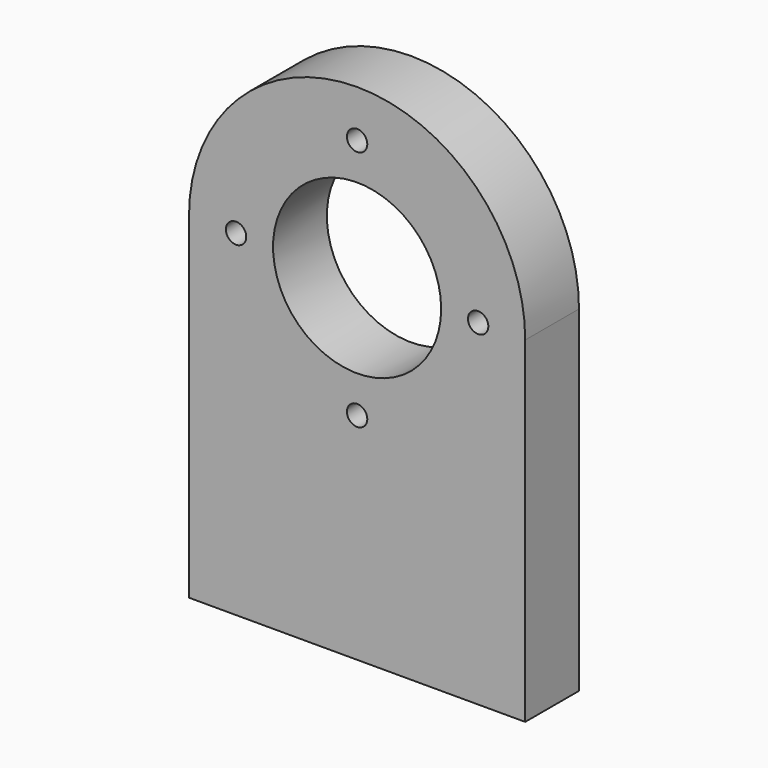
from build123d import *

# Parameters (mm, degrees)
F0_W     = 200
F0_H     = 40
F0_R     = 50
F1_DEPTH = 40
F2_D     = 12.1


with BuildPart() as f1:
    # F0 (on Front) → F1 (new body)
    with BuildSketch(Plane.XZ):
        with Locations((0, 20)):
            Rectangle(F0_W, F0_H)
        with BuildLine():
            Line((-100, 200), (-100, 40))
            Line((-100, 40), (100, 40))
            Line((100, 40), (100, 200))
            ThreePointArc((100, 200), (0, 300), (-100, 200))
        make_face()
        with Locations((0, 200)):
            Circle(F0_R, mode=Mode.SUBTRACT)
    extrude(amount=F1_DEPTH)

    # F2 (through all)
    with Locations(Plane(origin=(0, 0, 0), x_dir=(1, 0, 0), z_dir=(0, 1, 0))):
        with Locations((0, -272), (-72, -200), (0, -128), (72, -200)):
            Hole(F2_D / 2)


solid = f1.part
